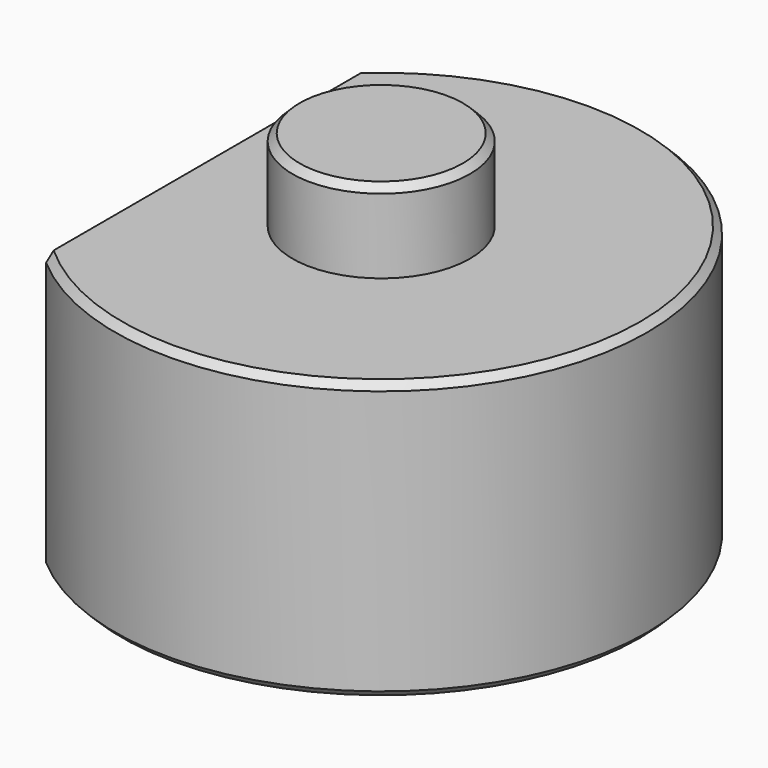
from build123d import *

# Parameters (mm, degrees)
F1_DEPTH = 9.9568
F2_R     = 3.175
F3_DEPTH = 2.921
F4_R     = 3.175
F5_DEPTH = 2.921
F6_R     = 3.175
F7_DEPTH = 12.7
F8_SIZE  = 0.254


with BuildPart() as f1:
    # F0 (on Top) → F1 (new body)
    with BuildSketch(Plane.XY):
        with BuildLine():
            Line((-6.223, 7.211095), (-6.223, -7.211095))
            ThreePointArc((-6.223, -7.211095), (9.525, 0), (-6.223, 7.211095))
        make_face()
    extrude(amount=F1_DEPTH)

    # F2 (on face) → F3 (join)
    with BuildSketch(Plane(origin=(0, 0, 0), x_dir=(1, 0, 0), z_dir=(0, 0, -1))):
        Circle(F2_R)
    extrude(amount=F3_DEPTH)

    # F4 (on face) → F5 (join)
    with BuildSketch(Plane.XY.offset(9.9568)):
        Circle(F4_R)
    extrude(amount=F5_DEPTH)

    # F6 (on face) → F7 (cut)
    with BuildSketch(Plane(origin=(-6.223, 0, 0), x_dir=(0, -1, 0), z_dir=(-1, 0, 0))):
        with Locations((0, 4.9784)):
            Circle(F6_R)
    extrude(amount=-F7_DEPTH, mode=Mode.SUBTRACT)

    # F8
    f8_edges = [f1.edges().sort_by_distance(p)[0] for p in [
        (-3.175, 0, -2.921),
        (9.525, 0, 9.9568),
        (9.525, 0, 0),
        (-3.175, 0, 12.8778),
    ]]
    chamfer(f8_edges, length=F8_SIZE)


solid = f1.part
